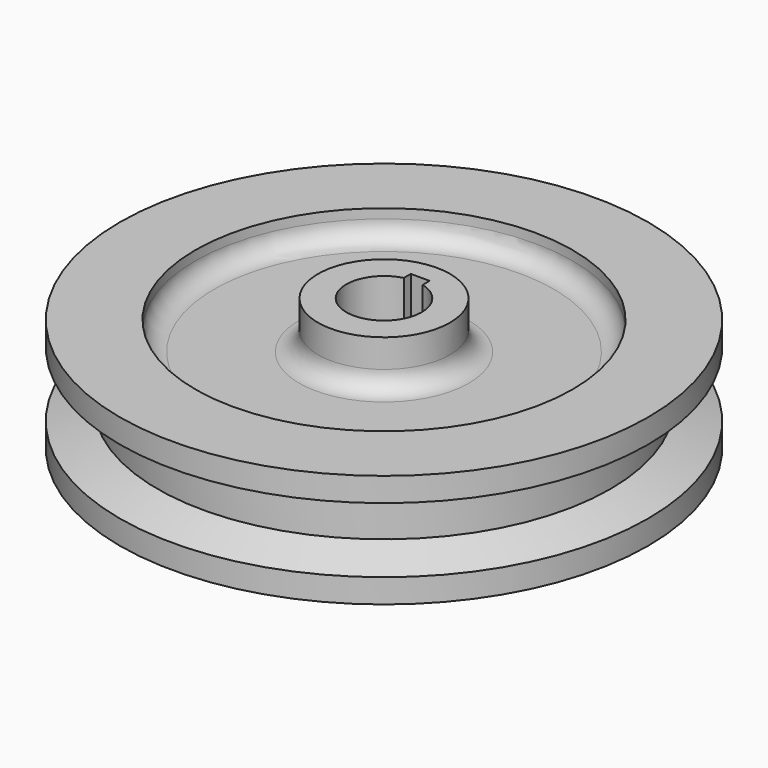
from build123d import *

# Parameters (mm, degrees)
F3_DEPTH = 50.801
F2_R     = 63.5
F2_R_2   = 22.225
F4_DEPTH = 15.875
F5_R     = 63.5
F5_R_2   = 22.225
F6_DEPTH = 15.875
F7_R     = 6.35


with BuildPart() as f1:
    # F0 (on Front) → F1 (revolve)
    with BuildSketch(Plane.XZ):
        Polygon((-69.6527920461, 26.3657749056), (-69.6527920461, -24.4342250944), (-47.4277920461, -24.4342250944), (-47.4277920461, -18.0842250944), (19.2472079539, -18.0842250944), (19.2472079539, -10.0066470696), (6.5472079539, -5.3842250944), (6.5472079539, 7.3157749056), (19.2472079539, 11.9381968808), (19.2472079539, 20.0157749056), (-47.4277920461, 20.0157749056), (-47.4277920461, 26.3657749056), align=None)
    revolve(axis=Axis((-69.6527920461, 0, 0.9657749056), (0, 0, -1)))

    # F2 (on face) → F3 (cut, through all)
    with BuildSketch(Plane.XY.offset(26.3657749056)):
        with BuildLine():
            Line((-72.8277920461, 15.24), (-72.8277920461, 12.2967221242))
            ThreePointArc((-72.8277920461, 12.2967221242), (-69.6527920461, -12.7), (-66.4777920461, 12.2967221242))
            Line((-66.4777920461, 12.2967221242), (-66.4777920461, 15.24))
            Line((-66.4777920461, 15.24), (-72.8277920461, 15.24))
        make_face()
    extrude(amount=-F3_DEPTH, mode=Mode.SUBTRACT)

    # F2 (on face) → F4 (cut)
    with BuildSketch(Plane.XY.offset(26.3657749056)):
        with Locations((-69.6527920461, 0)):
            Circle(F2_R)
        with Locations((-69.6527920461, 0)):
            Circle(F2_R_2, mode=Mode.SUBTRACT)
    extrude(amount=-F4_DEPTH, mode=Mode.SUBTRACT)

    # F5 (on face) → F6 (cut)
    with BuildSketch(Plane(origin=(0, 0, -18.0842250944), x_dir=(1, 0, 0), z_dir=(0, 0, -1))):
        with Locations((-69.6527920461, 0)):
            Circle(F5_R)
        with Locations((-69.6527920461, 0)):
            Circle(F5_R_2, mode=Mode.SUBTRACT)
    extrude(amount=-F6_DEPTH, mode=Mode.SUBTRACT)

    # F7
    f7_edges = [f1.edges().sort_by_distance(p)[0] for p in [
        (-133.152792, 0, 10.490775),
        (-91.877792, 0, 10.490775),
        (-133.152792, 0, -2.209225),
        (-91.877792, 0, -2.209225),
    ]]
    fillet(f7_edges, radius=F7_R)


solid = f1.part
